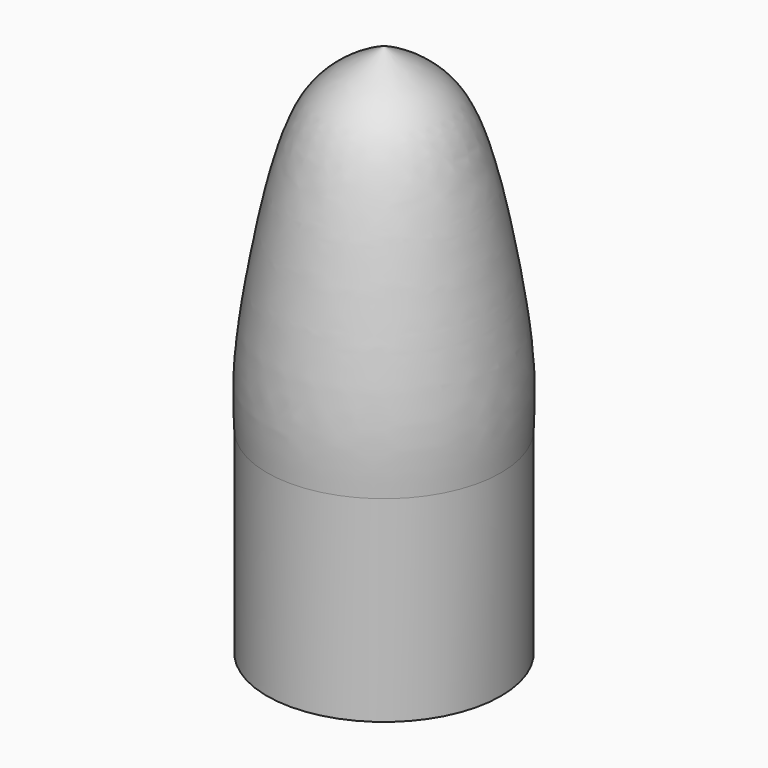
from build123d import *


with BuildPart() as f1:
    # F0 (on Front) → F1 (revolve)
    with BuildSketch(Plane.XZ):
        with BuildLine():
            Line((-13.8, -0.1872759312), (-13, -0.1872759312))
            Line((-13, -0.1872759312), (-13, 22.8127240688))
            Line((-13, 22.8127240688), (0, 22.8127240688))
            Line((0, 22.8127240688), (0, 62.8127240688))
            add(Edge.make_bspline(
                [(-13.8, 22.9960996658), (-13.8866359516, 25.1410843185), (-14.0870628459, 30.1033731171), (-12.2751395357, 41.8365298413), (-10.2076858258, 51.4586490959), (-7.8995111624, 57.3066051699), (-4.5332915974, 60.5131863401), (-1.5452719804, 62.028876142), (0, 62.8127240688)],
                knots=[0, 0, 0, 0, 0.163909755, 0.3791950401, 0.5770814076, 0.7292753343, 0.8599931413, 1, 1, 1, 1], degree=3))
            Line((-13.8, 22.9960996658), (-13.8, -0.1872759312))
        make_face()
    revolve(axis=Axis((0, 0, 24.2572510615), (0, 0, -1)))


solid = f1.part
